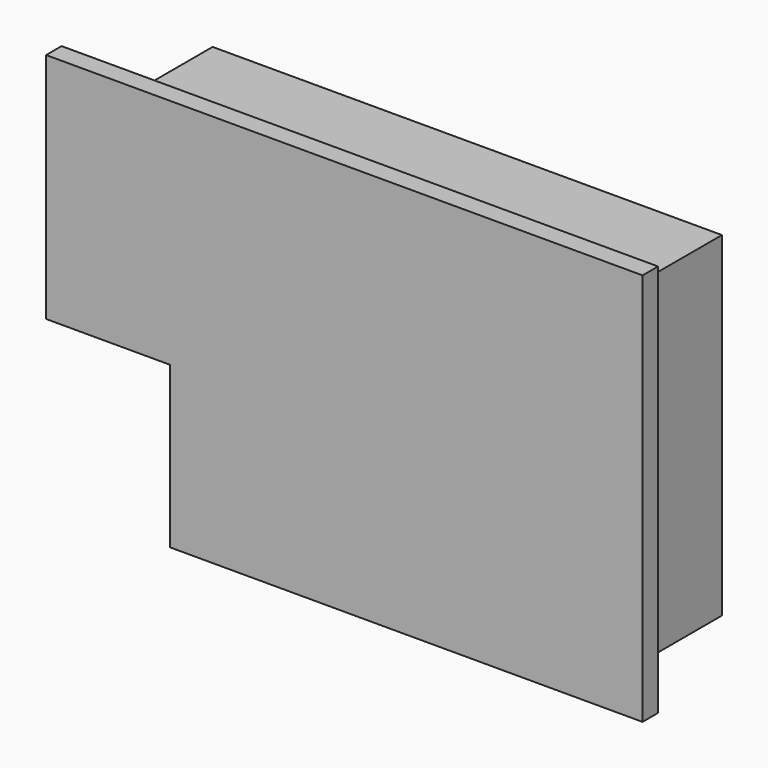
from build123d import *

# Parameters (mm, degrees)
F1_DEPTH = 6
F2_T     = -1
F3_R     = 0.4834105246
F4_ANGLE = 90
F6_DEPTH = 1


with BuildPart() as f1:
    # F0 (on Front) → F1 (new body)
    with BuildSketch(Plane.XZ):
        Polygon((-19.9, 0), (0, 0), (0, 17.3), (-26.3, 17.3), (-26.3, 9.8), (-19.9, 9.8), align=None)
    extrude(amount=-F1_DEPTH)

    # F2
    f2_openings = [f1.faces().sort_by_distance(p)[0] for p in [
        (-11.559096, 6, 9.249587),
    ]]
    offset(amount=F2_T, openings=f2_openings, kind=Kind.INTERSECTION)

    # F3 (on face) → F4 (revolve)
    with BuildSketch(Plane.XY.offset(10.8)):
        with Locations((-23.8165894754, 4.5165894754)):
            Circle(F3_R)
    revolve(axis=Axis((-25.3, 3.5, 10.8), (0, -1, 0)), revolution_arc=F4_ANGLE)

    # F5 (on face) → F6 (join)
    with BuildSketch(Plane.XZ):
        Polygon((-29.3, 18.8), (-29.3, 13.55), (-29.3, 6.8), (-22.9, 6.8), (-22.9, 4.9), (-22.9, -1.5), (1.5, -1.5), (1.5, 18.8), align=None)
    extrude(amount=F6_DEPTH)


solid = f1.part
